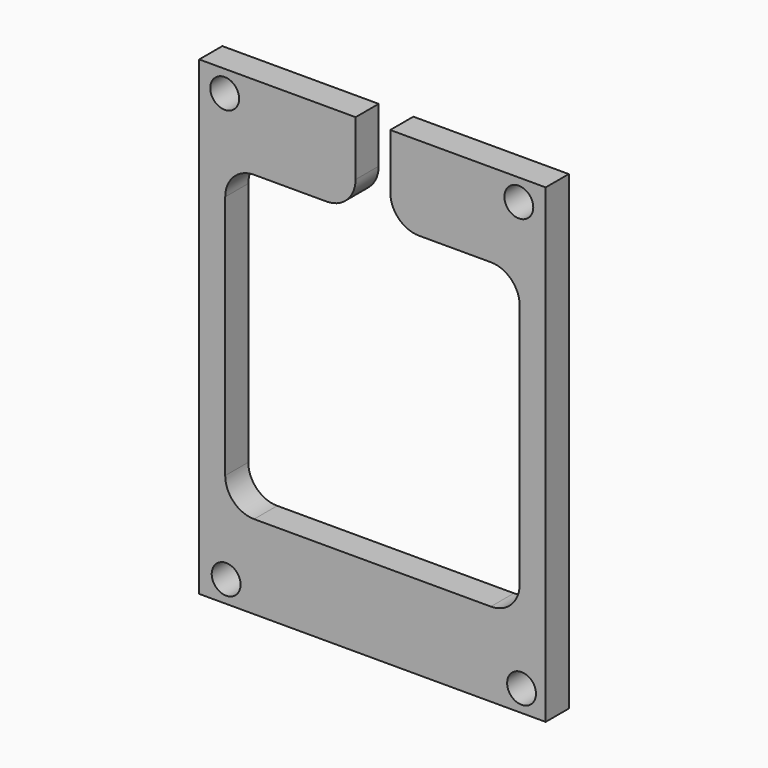
from build123d import *

# Parameters (mm, degrees)
F0_R     = 5
F1_DEPTH = 10
F2_R     = 10
F3_R     = 10


with BuildPart() as f1:
    # F0 (on Front) → F1 (new body)
    with BuildSketch(Plane.XZ):
        with BuildLine():
            Line((-60, -81.5), (60, -81.5))
            Line((60, -81.5), (60, 81.5))
            Line((60, 81.5), (6.165685, 81.5))
            Line((6.165685, 81.5), (6.165685, 52.5))
            Line((6.165685, 52.5), (41, 52.5))
            ThreePointArc((41, 52.5), (48.071068, 49.571068), (51, 42.5))
            Line((51, 42.5), (51, -42.5))
            ThreePointArc((51, -42.5), (48.071068, -49.571068), (41, -52.5))
            Line((41, -52.5), (-41, -52.5))
            ThreePointArc((-41, -52.5), (-48.071068, -49.571068), (-51, -42.5))
            Line((-51, -42.5), (-51, 42.5))
            ThreePointArc((-51, 42.5), (-48.071068, 49.571068), (-41, 52.5))
            Line((-41, 52.5), (-5.834315, 52.5))
            Line((-5.834315, 52.5), (-5.834315, 81.5))
            Line((-5.834315, 81.5), (-60, 81.5))
            Line((-60, 81.5), (-60, -81.5))
        make_face()
        with Locations((-50.680101, -74)):
            Circle(F0_R, mode=Mode.SUBTRACT)
        with Locations((51.650584, -74)):
            Circle(F0_R, mode=Mode.SUBTRACT)
        with Locations((-51.180493, 74)):
            Circle(F0_R, mode=Mode.SUBTRACT)
        with Locations((50.704208, 74)):
            Circle(F0_R, mode=Mode.SUBTRACT)
    extrude(amount=F1_DEPTH)

    # F2
    f2_edges = [f1.edges().sort_by_distance(p)[0] for p in [
        (-5.834315, -5, 52.5),
    ]]
    fillet(f2_edges, radius=F2_R)

    # F3
    f3_edges = [f1.edges().sort_by_distance(p)[0] for p in [
        (6.165685, -5, 52.5),
    ]]
    fillet(f3_edges, radius=F3_R)


solid = f1.part
